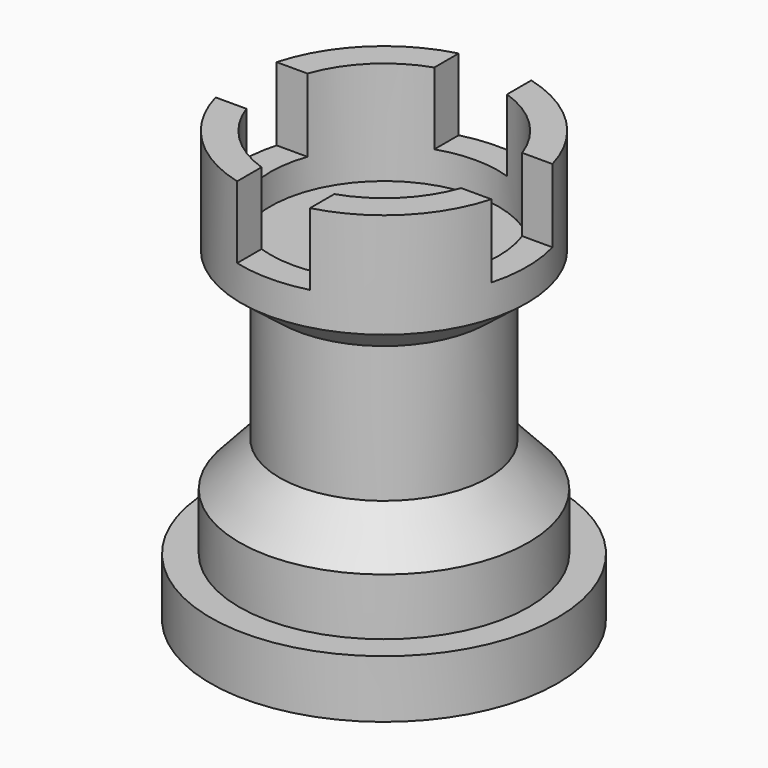
from build123d import *

# Parameters (mm, degrees)
F4_R     = 12.875258
F5_DEPTH = 12.7
F6_W     = 8.22093
F6_H     = 18.559195
F7_DEPTH = 25.4
F8_W     = 8.622916
F8_H     = 18.559195
F9_DEPTH = 25.4


with BuildPart() as f1:
    # F0 (on Front) → F1 (revolve)
    with BuildSketch(Plane.XZ):
        Polygon((-34.6094, 4.425088), (-34.6094, -2.110543), (-15.017255, -2.110543), (-15.017255, 46.499304), (-20.429717, 46.499304), (-20.429717, 42.830415), (-24.66305, 42.830415), (-24.66305, 46.499304), (-31.18447, 46.499304), (-31.18447, 34.617999), (-26.812965, 31.212292), (-26.812965, 15.816283), (-31.366523, 10.860938), (-31.366523, 4.425088), align=None)
    revolve(axis=Axis((-15.017255, 0, 22.194381), (0, 0, 1)))


with BuildPart() as f1_1:
    # F2: moved
    add(f1.part.moved(Location((14.986, 0, 2.032))))

    # F4 (on offset) → F5 (cut)
    with BuildSketch(Plane.XY.offset(49.53)):
        Circle(F4_R)
    extrude(amount=-F5_DEPTH, mode=Mode.SUBTRACT)

    # F6 (on Front) → F7 (cut, symmetric)
    with BuildSketch(Plane.XZ):
        with Locations((0, 49.671471)):
            Rectangle(F6_W, F6_H)
    extrude(amount=F7_DEPTH, both=True, mode=Mode.SUBTRACT)

    # F8 (on Right) → F9 (cut, symmetric)
    with BuildSketch(Plane.YZ):
        with Locations((0, 49.528695)):
            Rectangle(F8_W, F8_H)
    extrude(amount=F9_DEPTH, both=True, mode=Mode.SUBTRACT)


solid = f1_1.part
